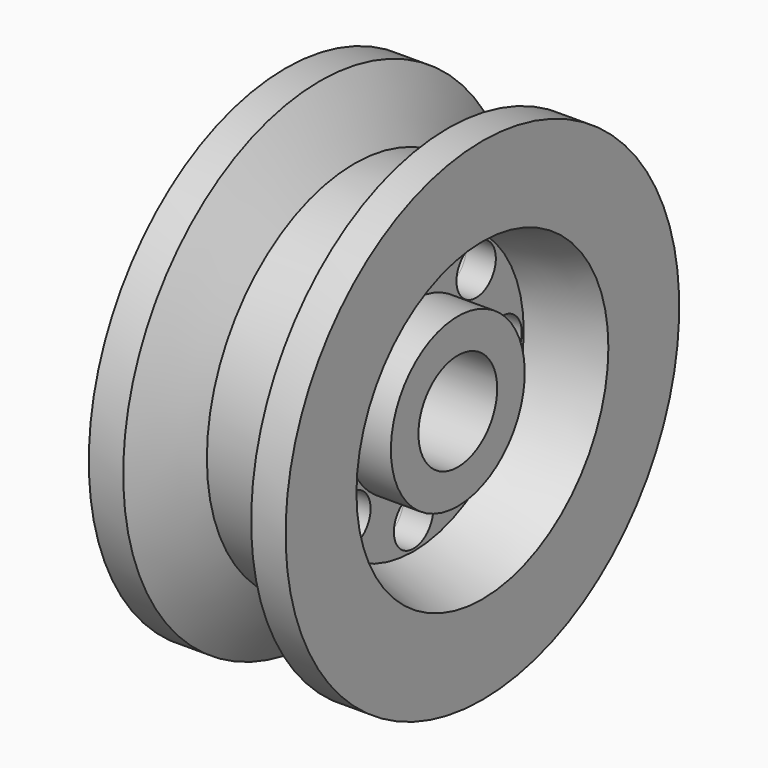
from build123d import *

# Parameters (mm, degrees)
F3_D     = 10
F3_DEPTH = 20.001
F4_D     = 10


with BuildPart() as f1:
    # F0 (on Front) → F1 (revolve)
    with BuildSketch(Plane.XZ):
        Polygon((-20, 18), (-20, 0), (-13, 0), (-6, 12.5), (0, 12.5), (6, 12.5), (13, 0), (20, 0), (20, 18), (6, 22), (0, 22), (-6, 22), align=None)
        Polygon((-6, 33), (-6, 22), (0, 22), (6, 22), (6, 33), (0, 33), align=None)
        Polygon((-15, 33), (-6, 33), (0, 33), (6, 33), (15, 33), (15, 40), (0, 40), (-15, 40), align=None)
    revolve(axis=Axis((-4.1045919061, 0, 50), (1, 0, 0)))

    # F3 (through all, one way)
    with BuildSketch(Plane.YZ):
        with Locations((15.9099025767, 65.9099025767), (0, 72.5), (-15.9099025767, 65.9099025767), (-22.5, 50), (-15.9099025767, 34.0900974233), (0, 27.5), (15.9099025767, 34.0900974233), (22.5, 50)):
            Circle(F3_D / 2)
    extrude(amount=-F3_DEPTH, mode=Mode.SUBTRACT)

    # F4 (through all)
    with Locations(Plane(origin=(0, 0, 0), x_dir=(0, 1, 0), z_dir=(-1, 0, 0))):
        with Locations((0, -72.5), (15.9099025767, -65.9099025767), (22.5, -50), (15.9099025767, -34.0900974233), (0, -27.5), (-15.9099025767, -34.0900974233), (-22.5, -50), (-15.9099025767, -65.9099025767)):
            Hole(F4_D / 2)


solid = f1.part
